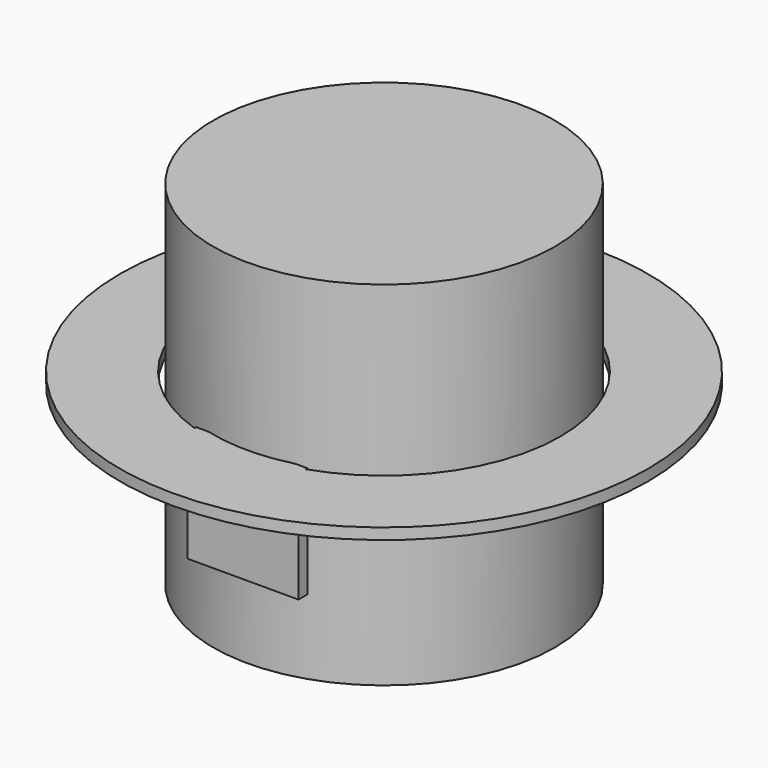
from build123d import *

# Parameters (mm, degrees)
F0_R     = 19
F0_R_2   = 12.7
F1_DEPTH = 0.8
F2_W     = 8
F2_H     = 0.8
F3_DEPTH = 8
F4_R     = 12.3
F5_DEPTH = 12.7


with BuildPart() as f1:
    # F0 (on Top) → F1 (new body)
    with BuildSketch(Plane.XY):
        Circle(F0_R)
        Circle(F0_R_2, mode=Mode.SUBTRACT)
    extrude(amount=F1_DEPTH)

    # F2 (on face) → F3 (join)
    with BuildSketch(Plane.XY.offset(0.8)):
        with Locations((0, -12.3)):
            Rectangle(F2_W, F2_H)
    extrude(amount=-F3_DEPTH)

    # F4 (on Top) → F5 (join, symmetric)
    with BuildSketch(Plane.XY):
        Circle(F4_R)
    extrude(amount=F5_DEPTH, both=True)


solid = f1.part
